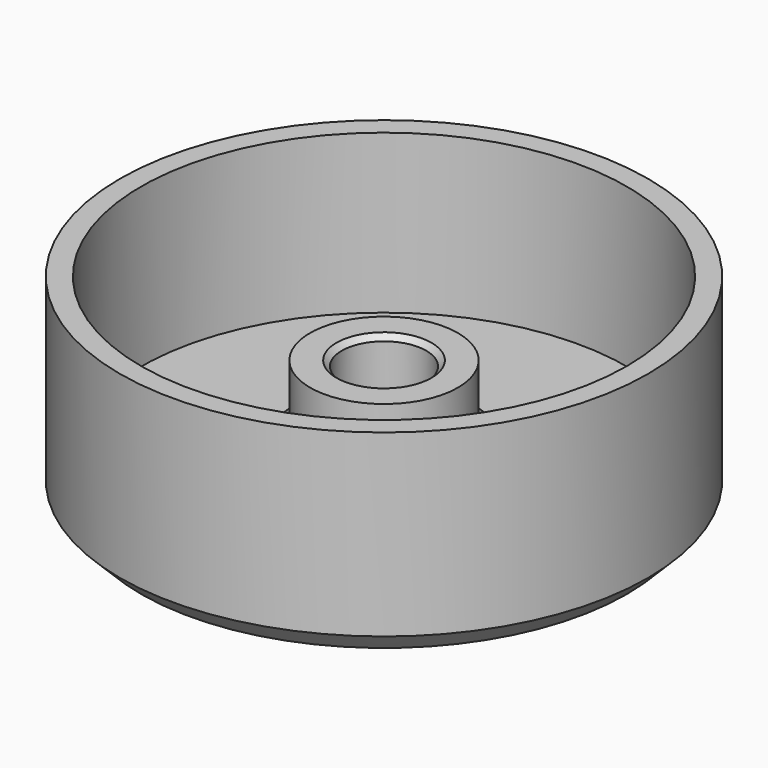
from build123d import *

# Parameters (mm, degrees)
SKETCH_R        = 25
PAD_DEPTH       = 4
SKETCH001_R     = 7
SKETCH001_R_2   = 4
PAD001_DEPTH    = 8
CHAMFER_SIZE    = 2
CHAMFER001_SIZE = 3
CHAMFER002_SIZE = 0.5
SKETCH002_R     = 25
SKETCH002_R_2   = 23
PAD002_DEPTH    = 15


with BuildPart() as part:
    # Sketch → Pad (new body)
    with BuildSketch(Plane.XY):
        Circle(SKETCH_R)
    extrude(amount=PAD_DEPTH)

    # Sketch001 (on Face3 of Pad) → Pad001 (join)
    with BuildSketch(Plane.XY.offset(4)):
        Circle(SKETCH001_R)
        Circle(SKETCH001_R_2, mode=Mode.SUBTRACT)
    extrude(amount=PAD001_DEPTH)

    # Chamfer
    chamfer_edges = [part.edges().sort_by_distance(p)[0] for p in [
        (-25, 0, 0),
    ]]
    chamfer(chamfer_edges, length=CHAMFER_SIZE)

    # Chamfer001
    chamfer001_edges = [part.edges().sort_by_distance(p)[0] for p in [
        (-7, 0, 4),
    ]]
    chamfer(chamfer001_edges, length=CHAMFER001_SIZE)

    # Chamfer002
    chamfer002_edges = [part.edges().sort_by_distance(p)[0] for p in [
        (-4, 0, 12),
    ]]
    chamfer(chamfer002_edges, length=CHAMFER002_SIZE)

    # Sketch002 (on Face7 of Chamfer002) → Pad002 (join)
    with BuildSketch(Plane.XY.offset(4)):
        Circle(SKETCH002_R)
        Circle(SKETCH002_R_2, mode=Mode.SUBTRACT)
    extrude(amount=PAD002_DEPTH)


solid = part.part
